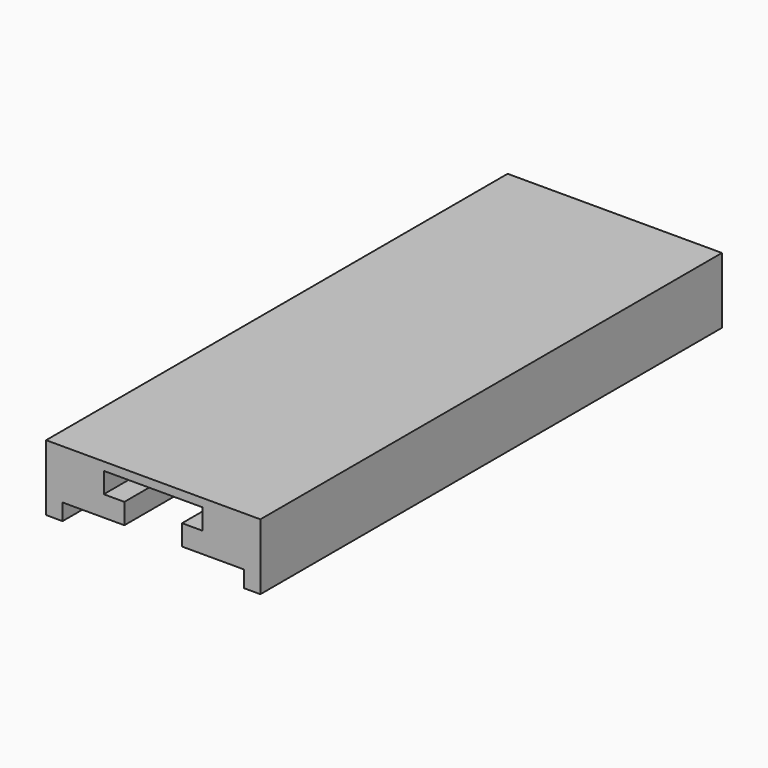
from build123d import *

# Parameters (mm, degrees)
F1_DEPTH = 70
F3_DEPTH = 50


with BuildPart() as f1:
    # F0 (on Front) → F1 (new body)
    with BuildSketch(Plane.XZ):
        Polygon((-11, -6), (11, -6), (11, -8), (13, -8), (13, 0), (-13, 0), (-13, -8), (-11, -8), align=None)
    extrude(amount=-F1_DEPTH)

    # F2 (on face) → F3 (cut)
    with BuildSketch(Plane.XZ):
        Polygon((-3.5, -3.5), (-3.5, -6), (3.5, -6), (3.5, -3.5), (6, -3.5), (6, -1), (-6, -1), (-6, -3.5), align=None)
    extrude(amount=-F3_DEPTH, mode=Mode.SUBTRACT)


solid = f1.part
